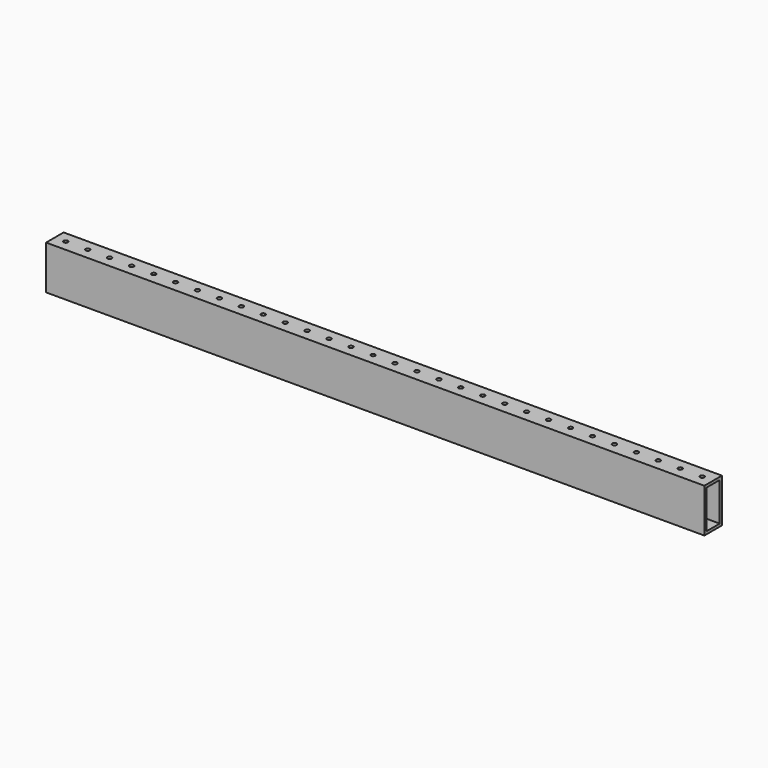
from build123d import *

# Parameters (mm, degrees)
F0_W     = 762
F0_H     = 25.4
F1_DEPTH = 25.4
F2_W     = 19.05
F2_H     = 44.45
F3_DEPTH = 762.001
F4_R     = 2.4892
F5_DEPTH = 50.801


with BuildPart() as f1:
    # F0 (on Top) → F1 (new body, symmetric)
    with BuildSketch(Plane.XY):
        Rectangle(F0_W, F0_H)
    extrude(amount=F1_DEPTH, both=True)

    # F2 (on face) → F3 (cut, through all)
    with BuildSketch(Plane.YZ.offset(381)):
        Rectangle(F2_W, F2_H)
    extrude(amount=-F3_DEPTH, mode=Mode.SUBTRACT)

    # F4 (on face) → F5 (cut, through all)
    with BuildSketch(Plane.XY.offset(25.4)):
        with Locations((-368.3, 0)):
            Circle(F4_R)
        with Locations((-342.9, 0)):
            Circle(F4_R)
        with Locations((-317.5, 0)):
            Circle(F4_R)
        with Locations((-292.1, 0)):
            Circle(F4_R)
        with Locations((-266.7, 0)):
            Circle(F4_R)
        with Locations((-241.3, 0)):
            Circle(F4_R)
        with Locations((-215.9, 0)):
            Circle(F4_R)
        with Locations((-190.5, 0)):
            Circle(F4_R)
        with Locations((-165.1, 0)):
            Circle(F4_R)
        with Locations((-139.7, 0)):
            Circle(F4_R)
        with Locations((-114.3, 0)):
            Circle(F4_R)
        with Locations((-88.9, 0)):
            Circle(F4_R)
        with Locations((-63.5, 0)):
            Circle(F4_R)
        with Locations((-38.1, 0)):
            Circle(F4_R)
        with Locations((-12.7, 0)):
            Circle(F4_R)
        with Locations((12.7, 0)):
            Circle(F4_R)
        with Locations((38.1, 0)):
            Circle(F4_R)
        with Locations((63.5, 0)):
            Circle(F4_R)
        with Locations((88.9, 0)):
            Circle(F4_R)
        with Locations((114.3, 0)):
            Circle(F4_R)
        with Locations((139.7, 0)):
            Circle(F4_R)
        with Locations((165.1, 0)):
            Circle(F4_R)
        with Locations((190.5, 0)):
            Circle(F4_R)
        with Locations((215.9, 0)):
            Circle(F4_R)
        with Locations((241.3, 0)):
            Circle(F4_R)
        with Locations((266.7, 0)):
            Circle(F4_R)
        with Locations((292.1, 0)):
            Circle(F4_R)
        with Locations((317.5, 0)):
            Circle(F4_R)
        with Locations((342.9, 0)):
            Circle(F4_R)
        with Locations((368.3, 0)):
            Circle(F4_R)
    extrude(amount=-F5_DEPTH, mode=Mode.SUBTRACT)


solid = f1.part
